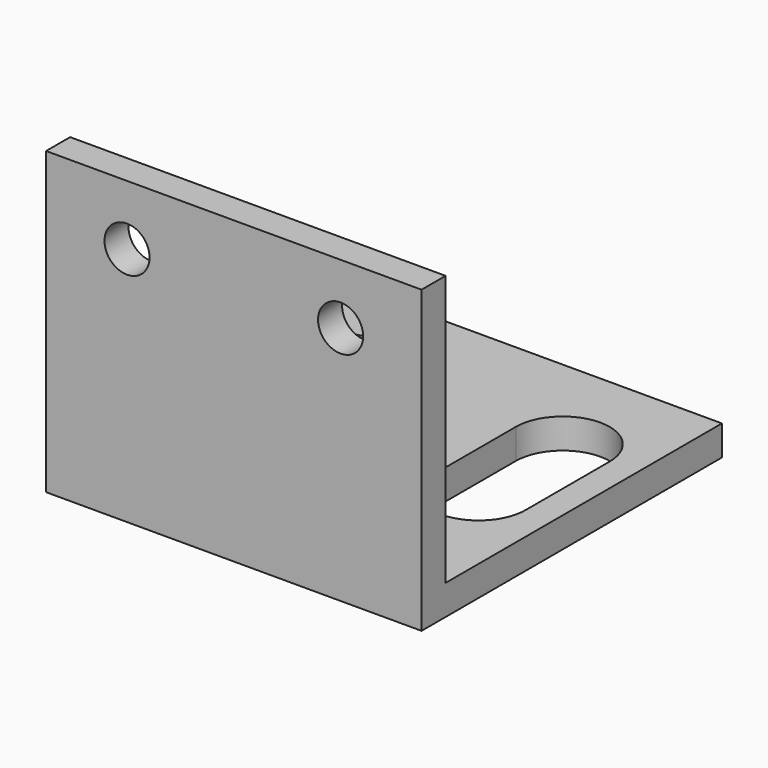
from build123d import *

# Parameters (mm, degrees)
F1_DEPTH = 25
F3_DEPTH = 25
F4_R     = 1.5
F5_DEPTH = 25


with BuildPart() as f1:
    # F0 (on Right) → F1 (new body)
    with BuildSketch(Plane.YZ):
        Polygon((-25, 0), (0, 0), (0, 2), (-23, 2), (-23, 20), (-25, 20), align=None)
    extrude(amount=-F1_DEPTH)

    # F2 (on face) → F3 (cut)
    with BuildSketch(Plane.XY.offset(2)):
        with BuildLine():
            Line((-16.875, -14), (-16.875, -7))
            ThreePointArc((-16.875, -7), (-20, -3.875), (-23.125, -7))
            Line((-23.125, -7), (-23.125, -14))
            ThreePointArc((-23.125, -14), (-20, -17.125), (-16.875, -14))
        make_face()
        with BuildLine():
            Line((-1.875, -14), (-1.875, -7))
            ThreePointArc((-1.875, -7), (-5, -3.875), (-8.125, -7))
            Line((-8.125, -7), (-8.125, -14))
            ThreePointArc((-8.125, -14), (-5, -17.125), (-1.875, -14))
        make_face()
    extrude(amount=-F3_DEPTH, mode=Mode.SUBTRACT)

    # F4 (on face) → F5 (cut)
    with BuildSketch(Plane(origin=(0, -23, 0), x_dir=(-1, 0, 0), z_dir=(0, 1, 0))):
        with Locations((5.39, 16)):
            Circle(F4_R)
        with Locations((19.61, 16)):
            Circle(F4_R)
    extrude(amount=-F5_DEPTH, mode=Mode.SUBTRACT)


solid = f1.part
